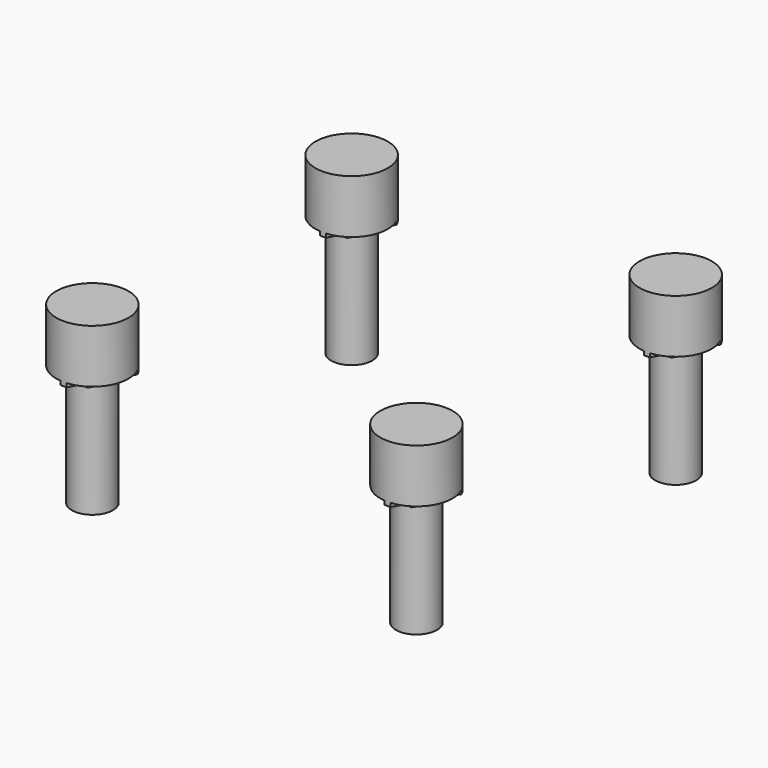
from build123d import *

# Parameters (mm, degrees)
B2HOLE00_HEAD_R               = 2.9
B2HOLE00_HEAD_DEPTH           = 4.3
B2HOLE00_SUP1AWAY_R           = 2.9
B2HOLE00_SUP1AWAY_DEPTH       = 3.6
B2HOLE00_SUP1_DEPTH           = 3.6
B2HOLE00_SUP1_PLACEMENT_ANGLE = 30
B2HOLE00_SUP2_DEPTH           = 3.9
B2HOLE00_SHANK_R              = 1.65
B2HOLE00_SHANK_DEPTH          = 14


with BuildPart() as b2hole00_head:
    # b2hole00_head → b2hole00_head (new body)
    with BuildSketch(Plane.XY.offset(8.7)):
        Circle(B2HOLE00_HEAD_R)
    extrude(amount=B2HOLE00_HEAD_DEPTH)


with BuildPart() as b2hole00_sup1away:
    # b2hole00_sup1away → b2hole00_sup1away (new body)
    with BuildSketch(Plane.XY.offset(8.4)):
        Circle(B2HOLE00_SUP1AWAY_R)
    extrude(amount=B2HOLE00_SUP1AWAY_DEPTH)


with BuildPart() as sup1cut:
    # b2hole00_sup1 → b2hole00_sup1 (new body)
    with BuildSketch(Plane.XY):
        Polygon((3.3, 0), (-1.65, 2.857884), (-1.65, -2.857884), align=None)
    extrude(amount=B2HOLE00_SUP1_DEPTH)


with BuildPart() as sup1cut_1:
    # b2hole00_sup1 placement: moved
    add(sup1cut.part.moved(Location((0, 0, 8.4))).rotate(Axis((0, 0, 8.4), (0, 0, 1)), B2HOLE00_SUP1_PLACEMENT_ANGLE))

    # sup1cut: intersect b2hole00_sup1away
    add(b2hole00_sup1away.part, mode=Mode.INTERSECT)


with BuildPart() as b2hole00_sup2:
    # b2hole00_sup2 → b2hole00_sup2 (new body)
    with BuildSketch(Plane.XY.offset(8.1)):
        Polygon((1.8975, 0), (0.94875, 1.643283), (-0.94875, 1.643283), (-1.8975, 0), (-0.94875, -1.643283), (0.94875, -1.643283), align=None)
    extrude(amount=B2HOLE00_SUP2_DEPTH)


with BuildPart() as b2hole00:
    # b2hole00_shank → b2hole00_shank (new body)
    with BuildSketch(Plane.XY.offset(-1)):
        Circle(B2HOLE00_SHANK_R)
    extrude(amount=B2HOLE00_SHANK_DEPTH)

    # b2hole00: union b2hole00_head, sup1cut, b2hole00_sup2
    add(b2hole00_head.part)
    add(sup1cut_1.part)
    add(b2hole00_sup2.part)


with BuildPart() as b2hole00_1:
    # b2hole00 placement: moved
    add(b2hole00.part.moved(Location((-13, -13, -3.5))))


with BuildPart() as b2hole01:
    # Clone004 base: copy of b2hole00
    add(b2hole00_1.part)


with BuildPart() as b2hole01_1:
    # Clone004 placement: moved
    add(b2hole01.part.moved(Location((0, 26, 0))))


with BuildPart() as b2hole10:
    # Clone005 base: copy of b2hole00
    add(b2hole00_1.part)


with BuildPart() as b2hole10_1:
    # Clone005 placement: moved
    add(b2hole10.part.moved(Location((26, 0, 0))))


with BuildPart() as b2hole11:
    # Clone006 base: copy of b2hole00
    add(b2hole00_1.part)


with BuildPart() as b2hole11_1:
    # Clone006 placement: moved
    add(b2hole11.part.moved(Location((26, 26, 0))))


with BuildPart() as b2holes:
    # b2holes base: copy of b2hole00
    add(b2hole00_1.part)

    # b2holes: union b2hole01, b2hole10, b2hole11
    add(b2hole01_1.part)
    add(b2hole10_1.part)
    add(b2hole11_1.part)


solid = b2holes.part
